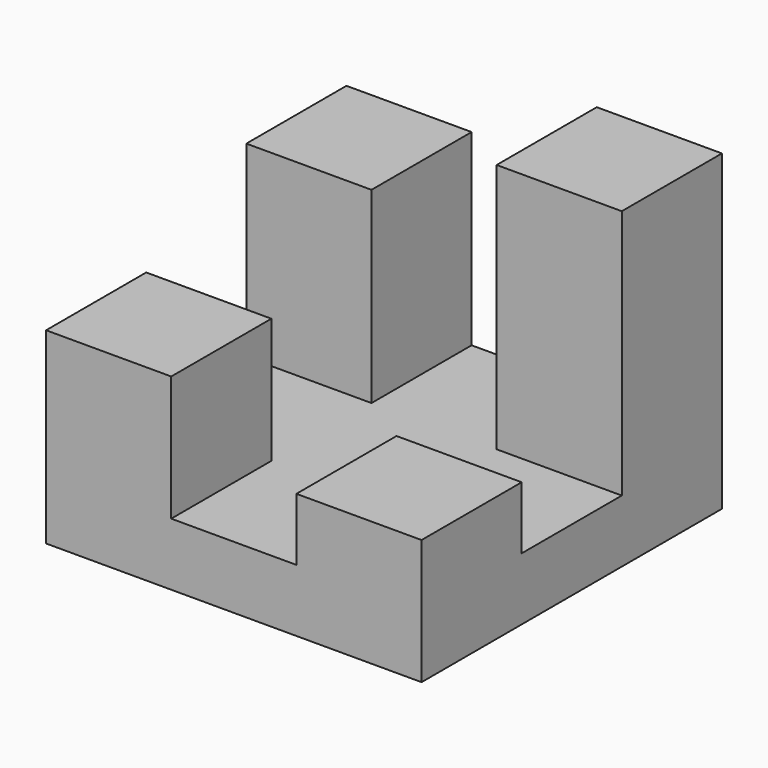
from build123d import *

# Parameters (mm, degrees)
F0_W     = 76.2
F0_H     = 76.2
F1_DEPTH = 12.7
F2_W     = 25.4
F2_H     = 25.4
F3_DEPTH = 25.4
F4_DEPTH = 12.7
F5_DEPTH = 50.8
F6_DEPTH = 38.1


with BuildPart() as f1:
    # F0 (on Top) → F1 (new body)
    with BuildSketch(Plane.XY):
        with Locations((3.28147, 10.518655)):
            Rectangle(F0_W, F0_H)
    extrude(amount=F1_DEPTH)

    # F2 (on face) → F3 (join)
    with BuildSketch(Plane.XY.offset(12.7)):
        with Locations((-22.11853, -14.881345)):
            Rectangle(F2_W, F2_H)
    extrude(amount=F3_DEPTH)

    # F2 (on face) → F4 (join)
    with BuildSketch(Plane.XY.offset(12.7)):
        with Locations((28.68147, -14.881345)):
            Rectangle(F2_W, F2_H)
    extrude(amount=F4_DEPTH)

    # F2 (on face) → F5 (join)
    with BuildSketch(Plane.XY.offset(12.7)):
        with Locations((28.68147, 35.918655)):
            Rectangle(F2_W, F2_H)
    extrude(amount=F5_DEPTH)

    # F2 (on face) → F6 (join)
    with BuildSketch(Plane.XY.offset(12.7)):
        with Locations((-22.11853, 35.918655)):
            Rectangle(F2_W, F2_H)
    extrude(amount=F6_DEPTH)


solid = f1.part
